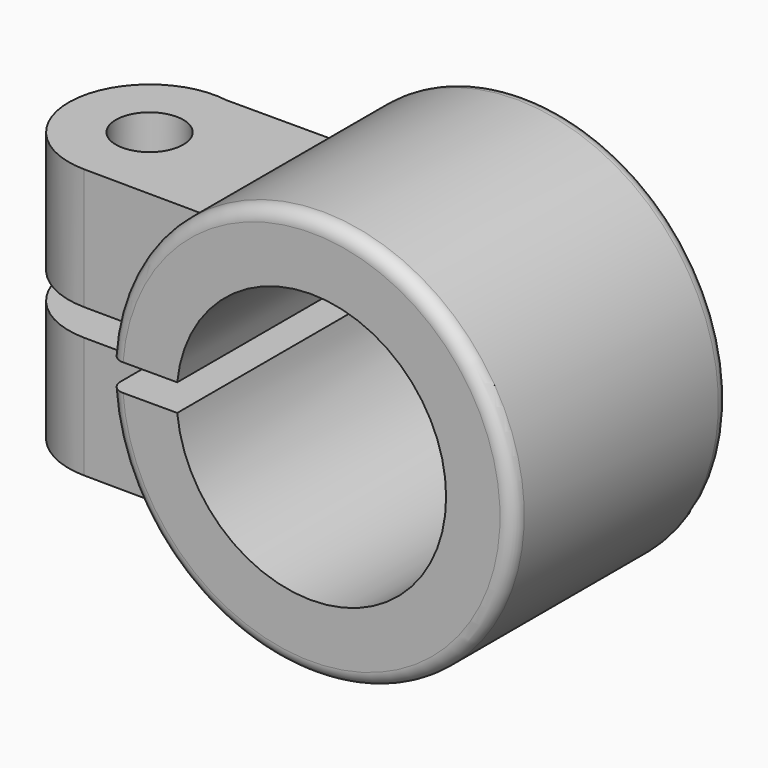
from build123d import *

# Parameters (mm, degrees)
F0_R          = 15
F0_R_2        = 10
F1_DEPTH      = 10
F1_DEPTH_BACK = 10
F2_R          = 2.5
F3_DEPTH      = 10
F3_DEPTH_BACK = 10
F4_W          = 50
F4_H          = 2
F5_DEPTH      = 25
F5_DEPTH_BACK = 25
F6_R          = 1


with BuildPart() as f1:
    # F0 (on Front) → F1 (new body, two sides)
    with BuildSketch(Plane.XZ) as f1_sk:
        Circle(F0_R)
        Circle(F0_R_2, mode=Mode.SUBTRACT)
    extrude(amount=F1_DEPTH)
    extrude(f1_sk.sketch, amount=-F1_DEPTH_BACK)

    # F2 (on Top) → F3 (join, two sides)
    with BuildSketch(Plane.XY) as f3_sk:
        with BuildLine():
            Line((-10.9971821198, 5.9223911099), (-19.0380834019, 5.9223911099))
            ThreePointArc((-19.0380834019, 5.9223911099), (-25.9784366079, 0.5082280244), (-20.0515892658, -5.9997782082))
            Line((-20.0515892658, -5.9997782082), (-11, -6.0776085593))
            Line((-11, -6.0776085593), (-10.9971821198, 5.9223911099))
        make_face()
        with Locations((-20, 0)):
            Circle(F2_R, mode=Mode.SUBTRACT)
    extrude(amount=F3_DEPTH)
    extrude(f3_sk.sketch, amount=-F3_DEPTH_BACK)

    # F4 (on Front) → F5 (cut, two sides)
    with BuildSketch(Plane.XZ) as f5_sk:
        with Locations((-31.5975938924, 0)):
            Rectangle(F4_W, F4_H)
    extrude(amount=-F5_DEPTH, mode=Mode.SUBTRACT)
    extrude(f5_sk.sketch, amount=F5_DEPTH_BACK, mode=Mode.SUBTRACT)

    # F6
    f6_edges = [f1.edges().sort_by_distance(p)[0] for p in [
        (15, -10, 0),
        (15, 10, 0),
    ]]
    fillet(f6_edges, radius=F6_R)


solid = f1.part
